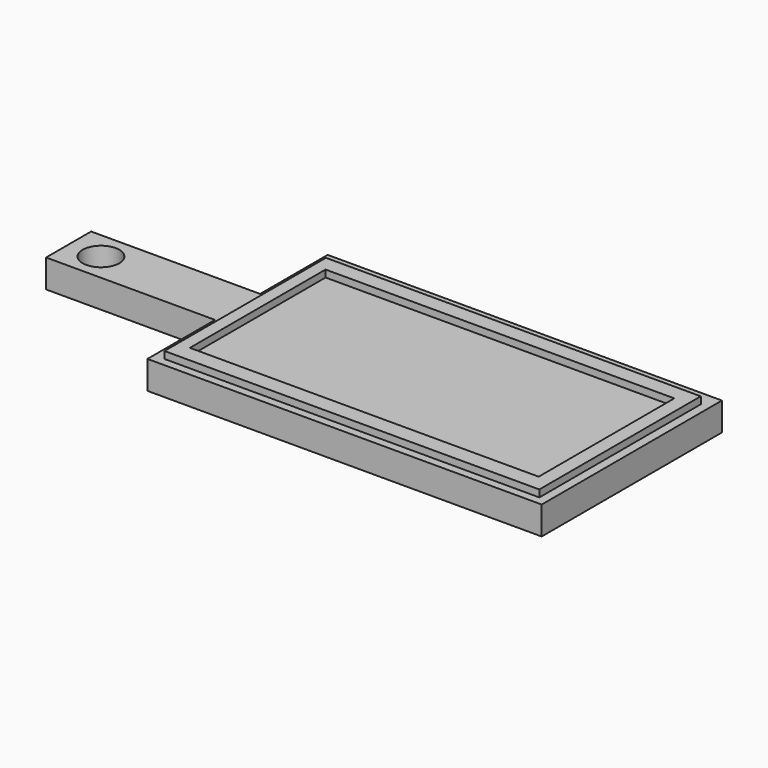
from build123d import *

# Parameters (mm, degrees)
F0_W     = 152.4
F0_H     = 50.8
F1_DEPTH = 25.4
F3_W     = 338.114095
F3_H     = 181.983536
F3_W_2   = 314.57949
F3_H_2   = 152.960297
F4_DEPTH = 6.35
F2_R     = 16.51
F5_DEPTH = 25.4


with BuildPart() as f1:
    # F0 (on Top) → F1 (new body)
    with BuildSketch(Plane.XY):
        Polygon((0, 76.2), (0, 0), (355.6, 0), (355.6, 203.2), (0, 203.2), (0, 127), align=None)
        with Locations((-76.2, 101.6)):
            Rectangle(F0_W, F0_H)
    extrude(amount=F1_DEPTH)

    # F3 (on face) → F4 (join)
    with BuildSketch(Plane.XY.offset(25.4)):
        with Locations((178.495669, 98.406327)):
            Rectangle(F3_W, F3_H)
        with Locations((177.711187, 98.79853)):
            Rectangle(F3_W_2, F3_H_2, mode=Mode.SUBTRACT)
    extrude(amount=F4_DEPTH)

    # F2 (on face) → F5 (cut)
    with BuildSketch(Plane.XY.offset(25.4)):
        with Locations((-123.133972, 101.54397)):
            Circle(F2_R)
    extrude(amount=-F5_DEPTH, mode=Mode.SUBTRACT)


solid = f1.part
